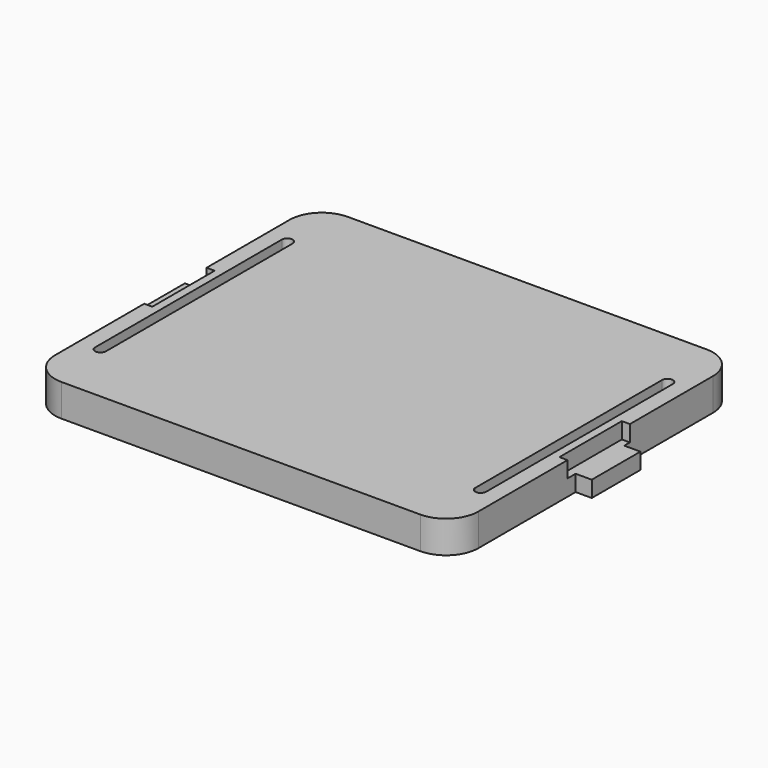
from build123d import *

# Parameters (mm, degrees)
F2_DEPTH = 3
F1_W     = 1.5
F1_H     = 5.6522476953
F3_DEPTH = 1.5


with BuildPart() as f2:
    # F1 (on Top) → F2 (new body)
    with BuildSketch(Plane.XY):
        with BuildLine():
            Line((16.665947184, 16.6212058179), (-16.665947184, 16.6212058179))
            ThreePointArc((-16.665947184, 16.6212058179), (-18.7872675275, 15.7425261615), (-19.665947184, 13.6212058179))
            Line((-19.665947184, 13.6212058179), (-19.665947184, 3.9769788273))
            Line((-19.665947184, 3.9769788273), (-18.915947184, 3.9769788273))
            Line((-18.915947184, 3.9769788273), (-18.915947184, -3.2694519032))
            Line((-18.915947184, -3.2694519032), (-19.665947184, -3.2694519032))
            Line((-19.665947184, -3.2694519032), (-19.665947184, -13.6212058179))
            ThreePointArc((-19.665947184, -13.6212058179), (-18.7872675275, -15.7425261615), (-16.665947184, -16.6212058179))
            Line((-16.665947184, -16.6212058179), (16.665947184, -16.6212058179))
            ThreePointArc((16.665947184, -16.6212058179), (18.7872675275, -15.7425261615), (19.665947184, -13.6212058179))
            Line((19.665947184, -13.6212058179), (19.665947184, -3.2694519032))
            Line((19.665947184, -3.2694519032), (18.915947184, -3.2694519032))
            Line((18.915947184, -3.2694519032), (18.915947184, 3.9769788273))
            Line((18.915947184, 3.9769788273), (19.665947184, 3.9769788273))
            Line((19.665947184, 3.9769788273), (19.665947184, 13.6212058179))
            ThreePointArc((19.665947184, 13.6212058179), (18.7872675275, 15.7425261615), (16.665947184, 16.6212058179))
        make_face()
        with BuildLine():
            Line((-18.165947184, -10.8459210023), (-18.165947184, 10.8459210023))
            ThreePointArc((-18.165947184, 10.8459210023), (-17.665947184, 11.3459210023), (-17.165947184, 10.8459210023))
            Line((-17.165947184, 10.8459210023), (-17.165947184, -10.8459210023))
            ThreePointArc((-17.165947184, -10.8459210023), (-17.665947184, -11.3459210023), (-18.165947184, -10.8459210023))
        make_face(mode=Mode.SUBTRACT)
        with BuildLine():
            ThreePointArc((17.165947184, 10.8459210023), (17.665947184, 11.3459210023), (18.165947184, 10.8459210023))
            Line((18.165947184, 10.8459210023), (18.165947184, -10.8459210023))
            ThreePointArc((18.165947184, -10.8459210023), (17.665947184, -11.3459210023), (17.165947184, -10.8459210023))
            Line((17.165947184, -10.8459210023), (17.165947184, 10.8459210023))
        make_face(mode=Mode.SUBTRACT)
    extrude(amount=F2_DEPTH)

    # F1 (on Top) → F3 (join)
    with BuildSketch(Plane.XY):
        with Locations((-20.415947184, 0.5000088131)):
            Rectangle(F1_W, F1_H)
        Polygon((-18.915947184, 3.9769788273), (-19.665947184, 3.9769788273), (-19.665947184, 3.3261326607), (-19.665947184, -2.3261150345), (-19.665947184, -3.2694519032), (-18.915947184, -3.2694519032), align=None)
        Polygon((19.665947184, 3.3261326607), (19.665947184, 3.9769788273), (18.915947184, 3.9769788273), (18.915947184, -3.2694519032), (19.665947184, -3.2694519032), (19.665947184, -2.3261150345), align=None)
        with Locations((20.415947184, 0.5000088131)):
            Rectangle(F1_W, F1_H)
    extrude(amount=F3_DEPTH)


solid = f2.part
